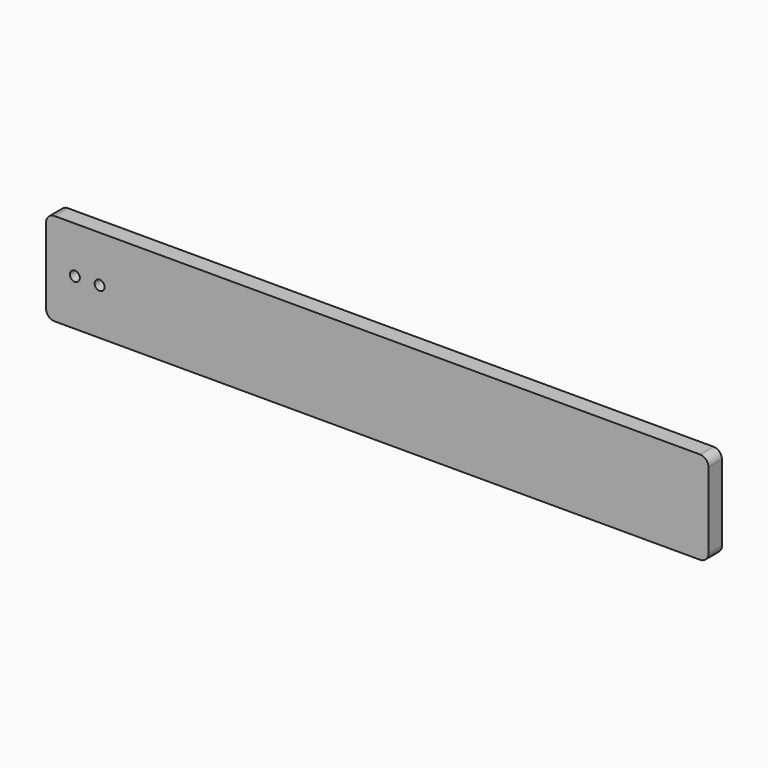
from build123d import *

# Parameters (mm, degrees)
F0_W     = 1000
F0_H     = 140
F0_R     = 7.5
F1_DEPTH = 12.7
F2_R     = 12.7


with BuildPart() as f1:
    # F0 (on Front) → F1 (new body, symmetric)
    with BuildSketch(Plane.XZ):
        Rectangle(F0_W, F0_H)
        with Locations((-456.552416, 0)):
            Circle(F0_R, mode=Mode.SUBTRACT)
        with Locations((-419.17792, 0)):
            Circle(F0_R, mode=Mode.SUBTRACT)
    extrude(amount=F1_DEPTH, both=True)

    # F2
    f2_edges = [f1.edges().sort_by_distance(p)[0] for p in [
        (-500, 0, 70),
        (-500, 0, -70),
        (500, 0, 70),
        (500, 0, -70),
    ]]
    fillet(f2_edges, radius=F2_R)


solid = f1.part
